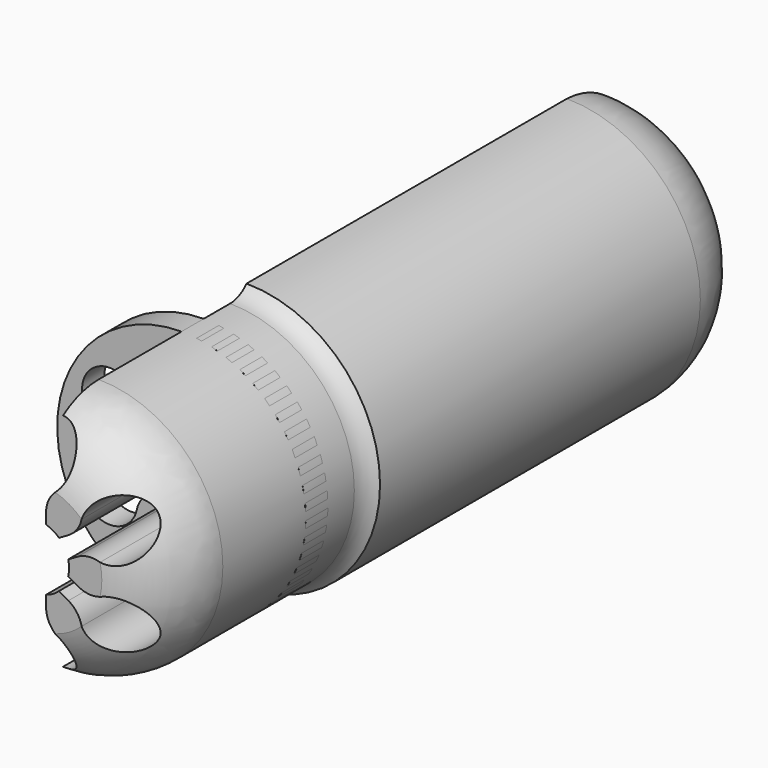
from build123d import *

# Parameters (mm, degrees)
F4_ANGLE  = 180
F6_DEPTH  = 90
F8_COUNT  = 6
F12_START = -20
F11_R     = 13.4913344195
F12_DEPTH = 3


with BuildPart() as f4:
    # F3 (on Right) → F4 (revolve)
    with BuildSketch(Plane.YZ):
        with BuildLine():
            Line((0.3716222048, 20.884835436), (81.3056033368, 20.884835436))
            ThreePointArc((81.3056033368, 20.884835436), (79.2480851868, 28.3977219469), (72.2783456923, 31.8761664331))
            Line((72.2783456923, 31.8761664331), (28.8201148927, 31.8761664331))
            ThreePointArc((28.8201148927, 31.8761664331), (27.8087917866, 31.1375536456), (26.5840469152, 30.8761664331))
            Line((26.5840469152, 30.8761664331), (8.8330505692, 30.8761664331))
            Line((8.8330505692, 30.8761664331), (8.7405150061, 30.8761664331))
            ThreePointArc((8.7405150061, 30.8761664331), (3.470465515, 29.0675325384), (0.3716222048, 24.4370089889))
            Line((0.3716222048, 24.4370089889), (0.3716222048, 20.884835436))
        make_face()
    revolve(axis=Axis((0, 40.3716222048, 17.384835436), (0, 1, 0)), revolution_arc=F4_ANGLE)


with BuildPart() as f6:
    # F5 (on Front) → F6 (new body)
    with BuildSketch(Plane.XZ):
        with BuildLine():
            ThreePointArc((1, 14.0307334698), (0, 13.884835436), (-1, 14.0307334698))
            Line((-1, 14.0307334698), (-1, 12.856971391))
            ThreePointArc((-1, 12.856971391), (-1.2613872125, 11.6322265196), (-2, 10.6209034135))
            ThreePointArc((-2, 10.6209034135), (0, 5.384835436), (2, 10.6209034135))
            ThreePointArc((2, 10.6209034135), (1.2613872125, 11.6322265196), (1, 12.856971391))
            Line((1, 12.856971391), (1, 14.0307334698))
        make_face()
    extrude(amount=-F6_DEPTH)


with BuildPart() as f8_1:
    # F8: instance of F6
    add(f6.part.rotate(Axis((0, 20.536005497, 17.384835436), (0, 1, 0)), 1 * 360 / F8_COUNT))


with BuildPart() as f8_2:
    # F8: instance of F6
    add(f6.part.rotate(Axis((0, 20.536005497, 17.384835436), (0, 1, 0)), 2 * 360 / F8_COUNT))


with BuildPart() as f8_3:
    # F8: instance of F6
    add(f6.part.rotate(Axis((0, 20.536005497, 17.384835436), (0, 1, 0)), 3 * 360 / F8_COUNT))


with BuildPart() as f8_4:
    # F8: instance of F6
    add(f6.part.rotate(Axis((0, 20.536005497, 17.384835436), (0, 1, 0)), 4 * 360 / F8_COUNT))


with BuildPart() as f8_5:
    # F8: instance of F6
    add(f6.part.rotate(Axis((0, 20.536005497, 17.384835436), (0, 1, 0)), 5 * 360 / F8_COUNT))


with BuildPart() as f4_1:
    add(f4.part)

    # F9: cut F8_3, F8_4, F8_5, F6
    add(f8_3.part, mode=Mode.SUBTRACT)
    add(f8_4.part, mode=Mode.SUBTRACT)
    add(f8_5.part, mode=Mode.SUBTRACT)
    add(f6.part, mode=Mode.SUBTRACT)


with BuildPart() as f10:
    # F3 (on Right) → F10 (revolve)
    with BuildSketch(Plane.YZ):
        with BuildLine():
            Line((0.3716222048, 20.884835436), (81.3056033368, 20.884835436))
            ThreePointArc((81.3056033368, 20.884835436), (79.2480851868, 28.3977219469), (72.2783456923, 31.8761664331))
            Line((72.2783456923, 31.8761664331), (28.8201148927, 31.8761664331))
            ThreePointArc((28.8201148927, 31.8761664331), (27.8087917866, 31.1375536456), (26.5840469152, 30.8761664331))
            Line((26.5840469152, 30.8761664331), (8.8330505692, 30.8761664331))
            Line((8.8330505692, 30.8761664331), (8.7405150061, 30.8761664331))
            ThreePointArc((8.7405150061, 30.8761664331), (3.470465515, 29.0675325384), (0.3716222048, 24.4370089889))
            Line((0.3716222048, 24.4370089889), (0.3716222048, 20.884835436))
        make_face()
    revolve(axis=Axis((0, 40.3716222048, 17.384835436), (0, 1, 0)))

    # F13: cut F6, F8_5, F8_4, F8_3, F8_2, F8_1
    add(f6.part, mode=Mode.SUBTRACT)
    add(f8_5.part, mode=Mode.SUBTRACT)
    add(f8_4.part, mode=Mode.SUBTRACT)
    add(f8_3.part, mode=Mode.SUBTRACT)
    add(f8_2.part, mode=Mode.SUBTRACT)
    add(f8_1.part, mode=Mode.SUBTRACT)


with BuildPart() as f12:
    # F11 (on Front) → F12 (new body)
    with BuildSketch(Plane.XZ.offset(F12_START)):
        with Locations((0, 17.384835436)):
            Circle(F11_R)
    extrude(amount=-F12_DEPTH)


with BuildPart() as f10_1:
    add(f10.part)

    # F14: intersect F12
    add(f12.part, mode=Mode.INTERSECT)


solid = Compound([f4_1.part, f10_1.part])
